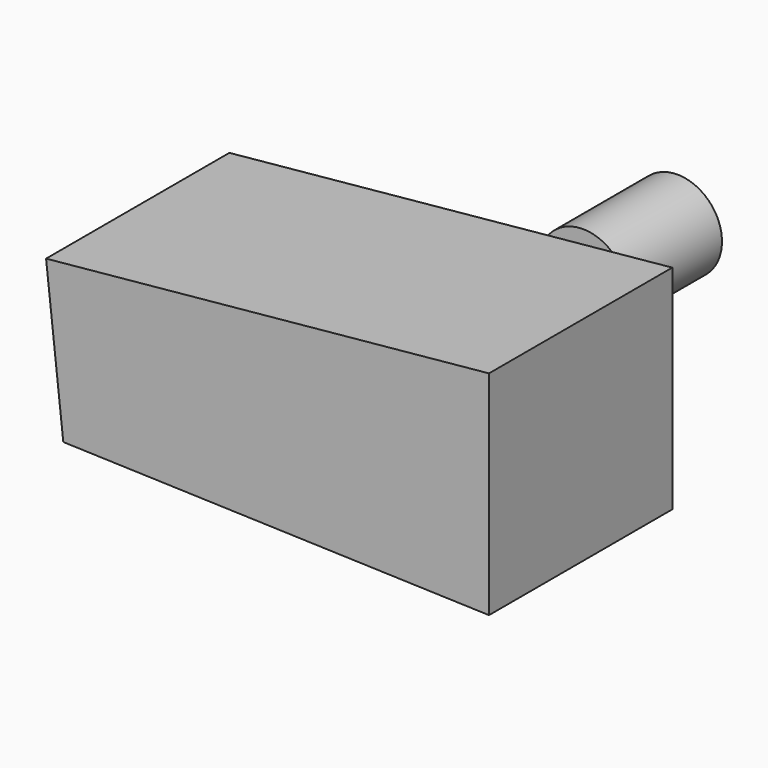
from build123d import *

# Parameters (mm, degrees)
F1_DEPTH = 49.276
F2_R     = 9.588786
F3_DEPTH = 25.4


with BuildPart() as f1:
    # F0 (on Front) → F1 (new body)
    with BuildSketch(Plane.XZ):
        Polygon((42.548668, 28.21162), (-52.723356, 18.961908), (-49.023468, -14.568295), (42.548668, -17.57445), align=None)
    extrude(amount=-F1_DEPTH)

    # F2 (on face) → F3 (join)
    with BuildSketch(Plane(origin=(0, 49.276, 0), x_dir=(-1, 0, 0), z_dir=(0, 1, 0))):
        with Locations((-23.340801, 19.686613)):
            Circle(F2_R)
    extrude(amount=F3_DEPTH)


solid = f1.part
